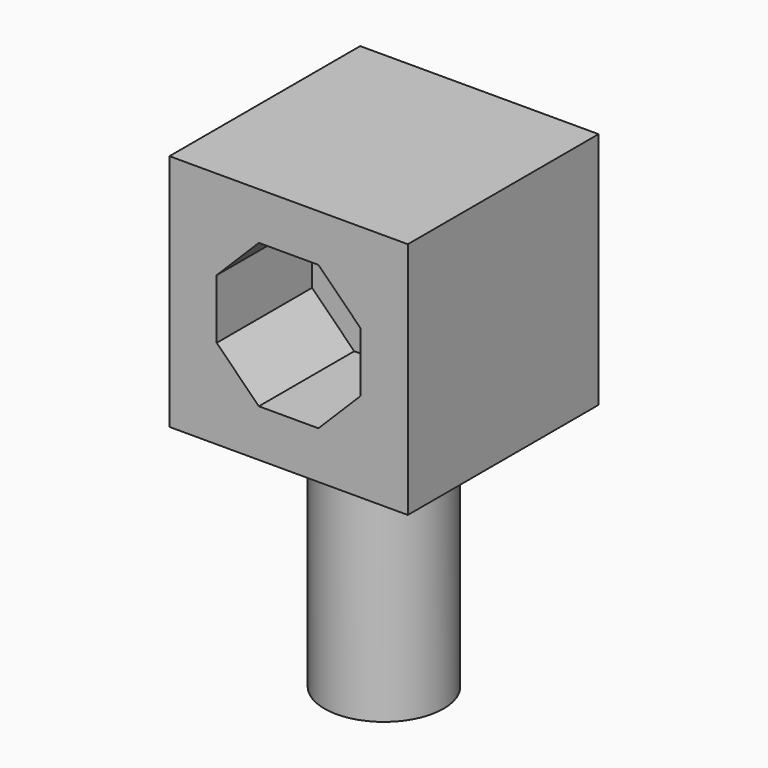
from build123d import *

# Parameters (mm, degrees)
F0_W     = 100
F0_H     = 100
F1_DEPTH = 100
F2_R     = 25
F3_DEPTH = 100
F5_DEPTH = 50


with BuildPart() as f1:
    # F0 (on Top) → F1 (new body)
    with BuildSketch(Plane.XY):
        Rectangle(F0_W, F0_H)
    extrude(amount=F1_DEPTH)

    # F2 (on face) → F3 (join)
    with BuildSketch(Plane(origin=(0, 0, 0), x_dir=(1, 0, 0), z_dir=(0, 0, -1))):
        Circle(F2_R)
    extrude(amount=F3_DEPTH)

    # F4 (on face) → F5 (cut)
    with BuildSketch(Plane.XZ.offset(50)):
        Polygon((12.5, 80.17767), (-12.5, 80.17767), (-30.17767, 62.5), (-30.17767, 37.5), (-12.5, 19.82233), (12.5, 19.82233), (30.17767, 37.5), (30.17767, 62.5), align=None)
    extrude(amount=-F5_DEPTH, mode=Mode.SUBTRACT)


solid = f1.part
